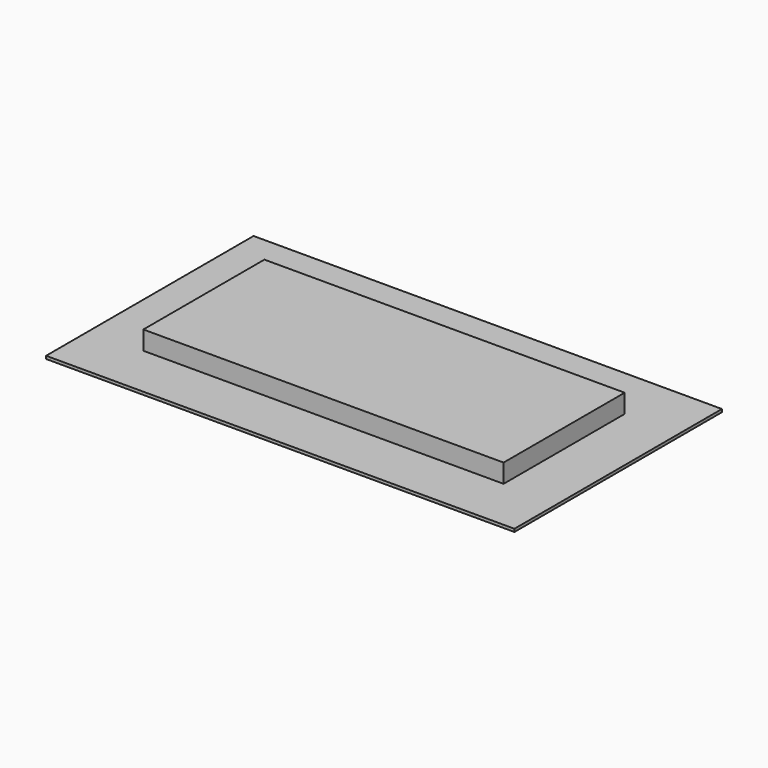
from build123d import *

# Parameters (mm, degrees)
F0_W     = 65
F0_H     = 36
F0_W_2   = 50
F0_H_2   = 21
F1_DEPTH = 0.4
F2_DEPTH = 3


with BuildPart() as f1:
    # F0 (on Top) → F1 (new body)
    with BuildSketch(Plane.XY):
        Rectangle(F0_W, F0_H)
        Rectangle(F0_W_2, F0_H_2, mode=Mode.SUBTRACT)
        Rectangle(F0_W_2, F0_H_2)
    extrude(amount=F1_DEPTH)

    # F0 (on Top) → F2 (join)
    with BuildSketch(Plane.XY):
        Rectangle(F0_W_2, F0_H_2)
    extrude(amount=F2_DEPTH)


solid = f1.part
